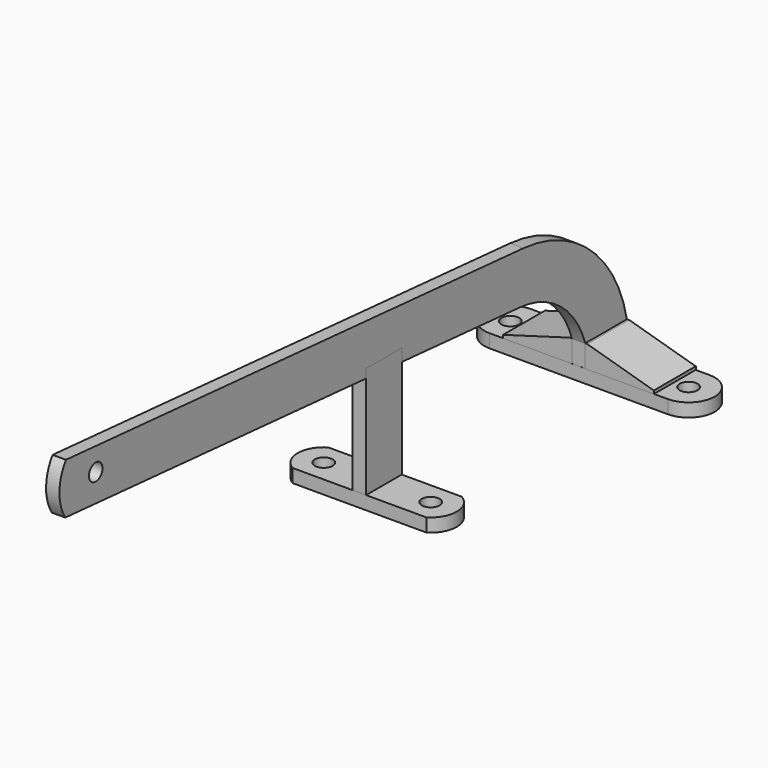
from build123d import *

# Parameters (mm, degrees)
EXTRUDE043_DEPTH           = 100
EXTRUDE044_DEPTH           = 100
EXTRUDE044_PLACEMENT_ANGLE = 180
SKETCH042_W                = 15.409683
SKETCH042_H                = 11.75
EXTRUDE042_DEPTH           = 5
SKETCH034_R                = 1.9
EXTRUDE033_DEPTH           = 1.5
SKETCH032_R                = 2
EXTRUDE031_DEPTH           = 3
SKETCH046_W                = 3
SKETCH046_H                = 10
EXTRUDE047_DEPTH           = 25
SKETCH045_R                = 2
EXTRUDE046_DEPTH           = 3


with BuildPart() as extrude043:
    # Sketch043 (on Face9 of Extrude042) → Extrude043 (new body, symmetric)
    with BuildSketch(Plane(origin=(0, -5.875, 43.5), x_dir=(0, 0, 1), z_dir=(0, 1, 0))):
        Polygon((3.071926, -17.617935), (-1.788124, -17.617935), (-1.788124, -16.850559), (3.071926, 0), align=None)
    extrude(amount=EXTRUDE043_DEPTH, both=True)


with BuildPart() as reinforcements_cut:
    # Sketch043 (on Face9 of Extrude042) → Extrude044 (new body, symmetric)
    with BuildSketch(Plane(origin=(0, -5.875, 43.5), x_dir=(0, 0, 1), z_dir=(0, 1, 0))):
        Polygon((3.071926, -17.617935), (-1.788124, -17.617935), (-1.788124, -16.850559), (3.071926, 0), align=None)
    extrude(amount=EXTRUDE044_DEPTH, both=True)


with BuildPart() as reinforcements_cut_1:
    # Extrude044 placement: moved
    add(reinforcements_cut.part.rotate(Axis((0, 0, 0), (0, 0, 1)), EXTRUDE044_PLACEMENT_ANGLE))

    # Fusion018: union Extrude043
    add(extrude043.part)


with BuildPart() as weapon_holder_reinforcement:
    # Sketch042 (on Face3 of Fusion016) → Extrude042 (new body)
    with BuildSketch(Plane.XY.offset(41)):
        with Locations((9.204841, 0)):
            Rectangle(SKETCH042_W, SKETCH042_H)
        with Locations((-9.204841, 0)):
            Rectangle(SKETCH042_W, SKETCH042_H)
    extrude(amount=EXTRUDE042_DEPTH)

    # Cut013: cut Reinforcements Cut
    add(reinforcements_cut_1.part, mode=Mode.SUBTRACT)


with BuildPart() as weapon_sling:
    # Sketch034 → Extrude033 (new body, symmetric)
    with BuildSketch(Plane.YZ):
        with BuildLine():
            Line((-5.83, 45.92), (-5.83, 40.92))
            Line((-5.83, 40.92), (5.83, 40.92))
            Line((5.83, 40.92), (5.83, 45.92))
            ThreePointArc((5.83, 45.92), (-4.33238, 63.749302), (-23.196931, 71.82932))
            Line((-23.196931, 71.82932), (-151.497755, 82.198654))
            ThreePointArc((-151.497755, 82.198654), (-153.320536, 76.557321), (-151.690467, 70.857318))
            Line((-24.108845, 60.546111), (-151.690467, 70.857318))
            ThreePointArc((-5.83, 45.92), (-12.730458, 56.03118), (-24.108845, 60.546111))
        make_face()
        with Locations((-143.144302, 76.384407)):
            Circle(SKETCH034_R, mode=Mode.SUBTRACT)
    extrude(amount=EXTRUDE033_DEPTH, both=True)


with BuildPart() as weapon_holder001:
    # Sketch032 (on Face8 of Cut008) → Extrude031 (new body)
    with BuildSketch(Plane.XY.offset(38)):
        with BuildLine():
            ThreePointArc((-20, 5.843082), (-25.843082, 0), (-20, -5.843082))
            Line((-20, -5.843082), (0, -5.843082))
            Line((20, -5.843082), (0, -5.843082))
            ThreePointArc((20, -5.843082), (25.843082, 0), (20, 5.843082))
            Line((20, 5.843082), (0, 5.843082))
            Line((-20, 5.843082), (0, 5.843082))
        make_face()
        with Locations((-20, 0)):
            Circle(SKETCH032_R, mode=Mode.SUBTRACT)
        with Locations((20, 0)):
            Circle(SKETCH032_R, mode=Mode.SUBTRACT)
    extrude(amount=EXTRUDE031_DEPTH)

    # Fusion016: union Weapon Sling
    add(weapon_sling.part)

    # Fusion019: union Weapon Holder Reinforcement
    add(weapon_holder_reinforcement.part)


with BuildPart() as middle_holder:
    # Sketch046 (on Face8 of Extrude046) → Extrude047 (new body)
    with BuildSketch(Plane.XY.offset(41)):
        with Locations((0.000128, -62.321724)):
            Rectangle(SKETCH046_W, SKETCH046_H)
    extrude(amount=EXTRUDE047_DEPTH)


with BuildPart() as weapon_holder_with_supports:
    # Sketch045 (on Face8 of Cut010) → Extrude046 (new body)
    with BuildSketch(Plane.XY.offset(38)):
        with BuildLine():
            Line((-15, -57.321598), (15, -57.321598))
            ThreePointArc((15, -67.321598), (17.830952, -62.321598), (15, -57.321598))
            Line((15, -67.321598), (-15, -67.321598))
            ThreePointArc((-15, -57.321598), (-17.830952, -62.321598), (-15, -67.321598))
        make_face()
        with Locations((12, -62.321598)):
            Circle(SKETCH045_R, mode=Mode.SUBTRACT)
        with Locations((-12, -62.321598)):
            Circle(SKETCH045_R, mode=Mode.SUBTRACT)
    extrude(amount=EXTRUDE046_DEPTH)

    # Fusion020: union Middle Holder
    add(middle_holder.part)

    # Fusion021: union Weapon Holder001
    add(weapon_holder001.part)


solid = weapon_holder_with_supports.part
